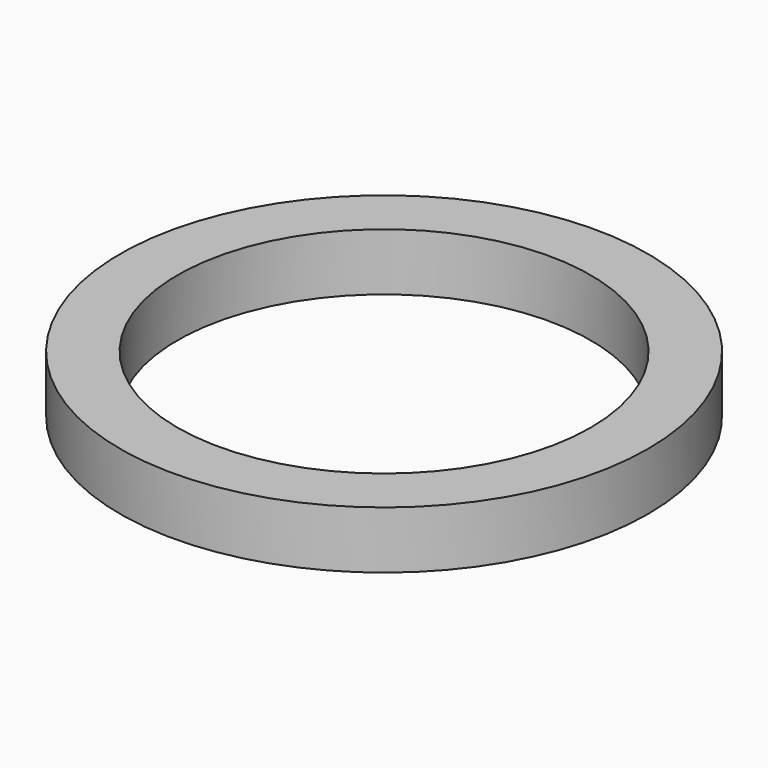
from build123d import *

# Parameters (mm, degrees)
CYLINDER001_R     = 900
CYLINDER001_DEPTH = 250
CYLINDER_R        = 1150
CYLINDER_DEPTH    = 250


with BuildPart() as obj1:
    # Cylinder001 → Cylinder001 (new body)
    with BuildSketch(Plane.XY):
        Circle(CYLINDER001_R)
    extrude(amount=CYLINDER001_DEPTH)


with BuildPart() as obj2:
    # Cylinder → Cylinder (new body)
    with BuildSketch(Plane.XY):
        Circle(CYLINDER_R)
    extrude(amount=CYLINDER_DEPTH)

    # Cut: cut obj1
    add(obj1.part, mode=Mode.SUBTRACT)


solid = obj2.part
